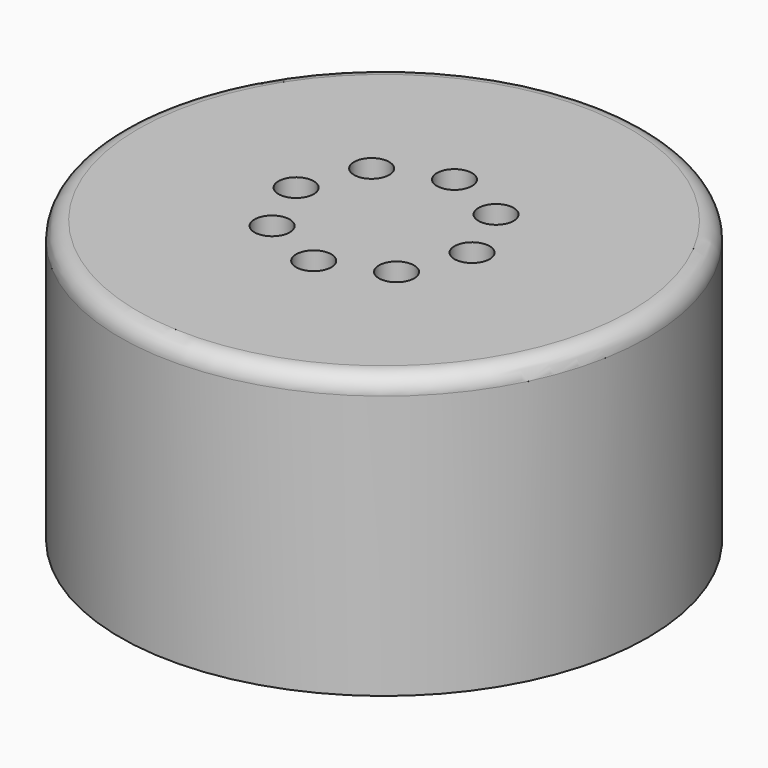
from build123d import *

# Parameters (mm, degrees)
F0_R     = 75
F1_DEPTH = 80
F2_R     = 5
F3_R     = 5
F4_DEPTH = 80


with BuildPart() as f1:
    # F0 (on Top) → F1 (new body)
    with BuildSketch(Plane.XY):
        Circle(F0_R)
    extrude(amount=F1_DEPTH)

    # F2
    f2_edges = [f1.edges().sort_by_distance(p)[0] for p in [
        (-75, 0, 80),
    ]]
    fillet(f2_edges, radius=F2_R)

    # F3 (on face) → F4 (cut, through all)
    with BuildSketch(Plane.XY.offset(80)):
        with Locations((-17.67767, 17.67767)):
            Circle(F3_R)
        with Locations((0, 25)):
            Circle(F3_R)
        with Locations((17.67767, 17.67767)):
            Circle(F3_R)
        with Locations((25, 0)):
            Circle(F3_R)
        with Locations((0, -25)):
            Circle(F3_R)
        with Locations((17.67767, -17.67767)):
            Circle(F3_R)
        with Locations((-17.67767, -17.67767)):
            Circle(F3_R)
        with Locations((-25, 0)):
            Circle(F3_R)
    extrude(amount=-F4_DEPTH, mode=Mode.SUBTRACT)


solid = f1.part
